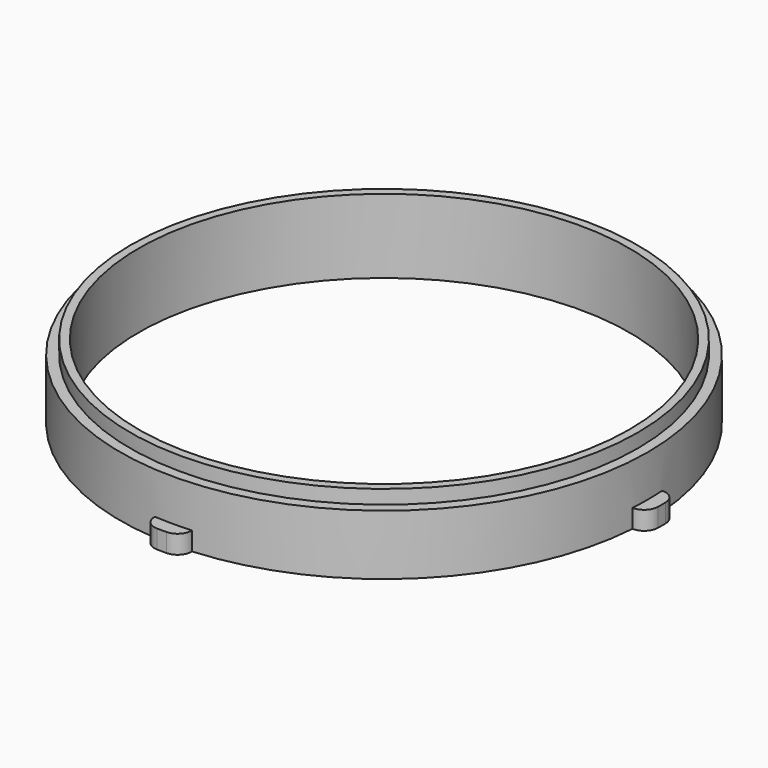
from build123d import *

# Parameters (mm, degrees)
F0_R     = 57
F0_R_2   = 53
F1_DEPTH = 13
F3_DEPTH = 4
F4_R     = 3
F5_R     = 54.8
F5_R_2   = 53
F6_DEPTH = 3


with BuildPart() as f1:
    # F0 (on Top) → F1 (new body)
    with BuildSketch(Plane.XY):
        Circle(F0_R)
        Circle(F0_R_2, mode=Mode.SUBTRACT)
    extrude(amount=F1_DEPTH)

    # F2 (on Top) → F3 (join)
    with BuildSketch(Plane.XY):
        with BuildLine():
            Line((-56.859476, 4), (-59.866518, 4))
            ThreePointArc((-59.866518, 4), (-60, 0), (-59.866518, -4))
            Line((-59.866518, -4), (-56.859476, -4))
            ThreePointArc((-56.859476, -4), (-57, 0), (-56.859476, 4))
        make_face()
        with BuildLine():
            ThreePointArc((4, 59.866518), (0, 60), (-4, 59.866518))
            Line((-4, 59.866518), (-4, 56.859476))
            ThreePointArc((-4, 56.859476), (0, 57), (4, 56.859476))
            Line((4, 56.859476), (4, 59.866518))
        make_face()
        with BuildLine():
            ThreePointArc((-4, -59.866518), (0, -60), (4, -59.866518))
            Line((4, -59.866518), (4, -56.859476))
            ThreePointArc((4, -56.859476), (0, -57), (-4, -56.859476))
            Line((-4, -56.859476), (-4, -59.866518))
        make_face()
        with BuildLine():
            Line((56.859476, -4), (59.866518, -4))
            ThreePointArc((59.866518, -4), (60, 0), (59.866518, 4))
            Line((59.866518, 4), (56.859476, 4))
            ThreePointArc((56.859476, 4), (57, 0), (56.859476, -4))
        make_face()
    extrude(amount=F3_DEPTH)

    # F4
    f4_edges = [f1.edges().sort_by_distance(p)[0] for p in [
        (59.866518, -4, 2),
        (59.866518, 4, 2),
        (-4, -59.866518, 2),
        (4, -59.866518, 2),
        (-59.866518, -4, 2),
        (-59.866518, 4, 2),
        (-4, 59.866518, 2),
        (4, 59.866518, 2),
    ]]
    fillet(f4_edges, radius=F4_R)

    # F5 (on face) → F6 (join)
    with BuildSketch(Plane.XY.offset(13)):
        Circle(F5_R)
        Circle(F5_R_2, mode=Mode.SUBTRACT)
    extrude(amount=F6_DEPTH)


solid = f1.part
